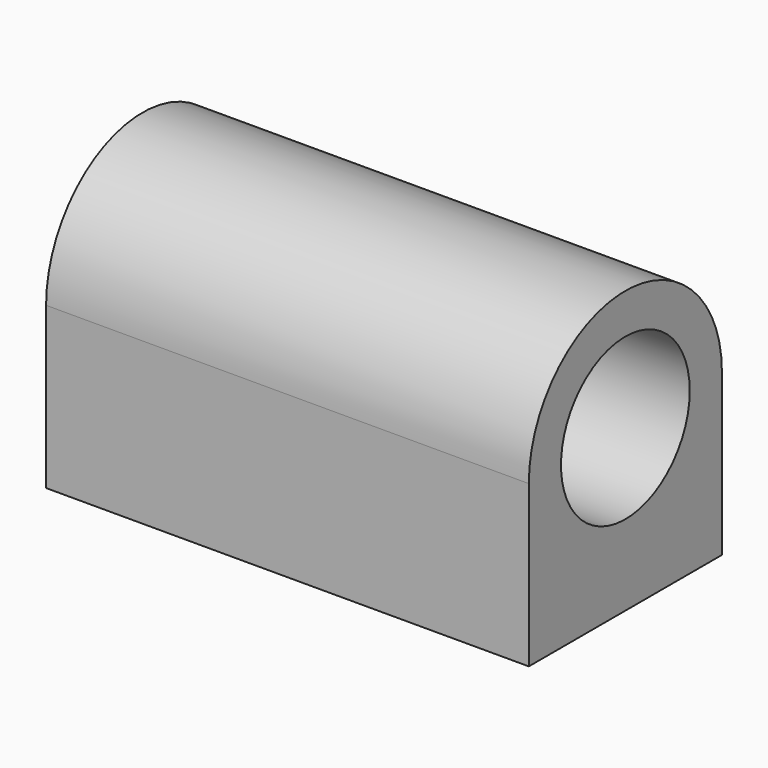
from build123d import *

# Parameters (mm, degrees)
F1_DEPTH = 76.2
F3_D     = 3.302
F3_DEPTH = 12.7
F3_TIP   = 0.992020882
F4_R     = 12.7
F5_DEPTH = 76.201


with BuildPart() as f1:
    # F0 (on Right) → F1 (new body)
    with BuildSketch(Plane.YZ):
        with BuildLine():
            ThreePointArc((-19.05, 0), (0, -19.05), (19.05, 0))
            Line((19.05, 0), (-19.05, 0))
        make_face()
        with BuildLine():
            Line((-19.05, 0), (19.05, 0))
            ThreePointArc((19.05, 0), (0, 19.05), (-19.05, 0))
        make_face()
        with BuildLine():
            Line((19.05, -25.4), (19.05, 0))
            ThreePointArc((19.05, 0), (0, -19.05), (-19.05, 0))
            Line((-19.05, 0), (-19.05, -25.4))
            Line((-19.05, -25.4), (19.05, -25.4))
        make_face()
    extrude(amount=F1_DEPTH)

    # F3
    with Locations(Plane(origin=(0, 0, -25.4), x_dir=(1, 0, 0), z_dir=(0, 0, -1))):
        with Locations((6.35, 12.7), (6.35, -12.7), (69.85, -12.7), (69.85, 12.7)):
            Hole(F3_D / 2, depth=F3_DEPTH)
            with Locations((0, 0, -(F3_DEPTH + F3_TIP / 2))):  # 118° drill point
                Cone(0, F3_D / 2, F3_TIP, mode=Mode.SUBTRACT)

    # F4 (on face) → F5 (cut, through all)
    with BuildSketch(Plane.YZ.offset(76.2)):
        Circle(F4_R)
    extrude(amount=-F5_DEPTH, mode=Mode.SUBTRACT)


solid = f1.part
